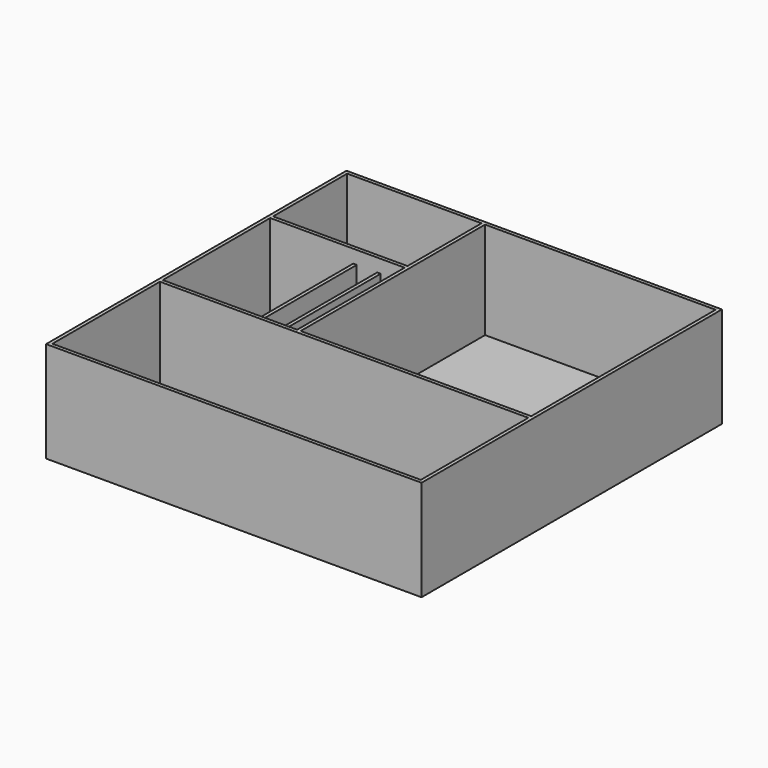
from build123d import *

# Parameters (mm, degrees)
F0_W     = 92
F0_H     = 63.4
F1_DEPTH = 2.4
F0_W_2   = 56.8
F0_H_2   = 92
F0_W_3   = 14
F0_W_4   = 8
F0_W_5   = 6
F0_W_6   = 252.2
F0_W_7   = 257
F0_H_3   = 257
F2_DEPTH = 69
F0_W_8   = 2.4
F3_DEPTH = 60


with BuildPart() as f1:
    # F0 (on Top) → F1 (new body)
    with BuildSketch(Plane.XY):
        with Locations((-80.1, 94.4)):
            Rectangle(F0_W, F0_H)
    extrude(amount=F1_DEPTH)



with BuildPart() as f1b:
    # F0 (on Top) → F1, piece 2 (new body)
    with BuildSketch(Plane.XY):
        with Locations((-97.7, 14.3)):
            Rectangle(F0_W_2, F0_H_2)
    extrude(amount=F1_DEPTH)


with BuildPart() as f1c:
    # F0 (on Top) → F1, piece 3 (new body)
    with BuildSketch(Plane.XY):
        with Locations((-59.9, 14.3)):
            Rectangle(F0_W_3, F0_H_2)
    extrude(amount=F1_DEPTH)


with BuildPart() as f1d:
    # F0 (on Top) → F1, piece 4 (new body)
    with BuildSketch(Plane.XY):
        with Locations((-46.5, 14.3)):
            Rectangle(F0_W_4, F0_H_2)
    extrude(amount=F1_DEPTH)


with BuildPart() as f1e:
    # F0 (on Top) → F1, piece 5 (new body)
    with BuildSketch(Plane.XY):
        with Locations((-37.1, 14.3)):
            Rectangle(F0_W_5, F0_H_2)
    extrude(amount=F1_DEPTH)


with BuildPart() as f1f:
    # F0 (on Top) → F1, piece 6 (new body)
    with BuildSketch(Plane.XY):
        Polygon((126.1, 126.1), (-31.7, 126.1), (-31.7, 60.3), (-31.7, -31.7), (126.1, -31.7), align=None)
    extrude(amount=F1_DEPTH)


with BuildPart() as f1g:
    # F0 (on Top) → F1, piece 7 (new body)
    with BuildSketch(Plane.XY):
        with Locations((0, -80.1)):
            Rectangle(F0_W_6, F0_H_2)
    extrude(amount=F1_DEPTH)


with BuildPart() as f1_1:
    add(f1.part)

    add(f1b.part)  # F2 merges F1b

    add(f1c.part)  # F2 merges F1c

    add(f1d.part)  # F2 merges F1d

    add(f1e.part)  # F2 merges F1e

    add(f1f.part)  # F2 merges F1f

    add(f1g.part)  # F2 merges F1g
    # F0 (on Top) → F2 (join)
    with BuildSketch(Plane.XY):
        Rectangle(F0_W_7, F0_H_3)
        Polygon((-126.1, 62.7), (-126.1, 126.1), (-34.1, 126.1), (-31.7, 126.1), (126.1, 126.1), (126.1, -31.7), (126.1, -34.1), (126.1, -126.1), (-126.1, -126.1), (-126.1, -34.1), (-126.1, -31.7), (-126.1, 60.3), align=None, mode=Mode.SUBTRACT)
        Polygon((-69.3, -31.7), (-126.1, -31.7), (-126.1, -34.1), (126.1, -34.1), (126.1, -31.7), (-31.7, -31.7), (-34.1, -31.7), (-40.1, -31.7), (-42.5, -31.7), (-50.5, -31.7), (-52.9, -31.7), (-66.9, -31.7), align=None)
        Polygon((-34.1, 62.7), (-126.1, 62.7), (-126.1, 60.3), (-69.3, 60.3), (-66.9, 60.3), (-52.9, 60.3), (-50.5, 60.3), (-42.5, 60.3), (-40.1, 60.3), (-34.1, 60.3), align=None)
        Polygon((-31.7, 126.1), (-34.1, 126.1), (-34.1, 62.7), (-34.1, 60.3), (-34.1, -31.7), (-31.7, -31.7), (-31.7, 60.3), align=None)
    extrude(amount=F2_DEPTH)

    # F0 (on Top) → F3 (join)
    with BuildSketch(Plane.XY):
        with Locations((-68.1, 14.3)):
            Rectangle(F0_W_8, F0_H_2)
        with Locations((-51.7, 14.3)):
            Rectangle(F0_W_8, F0_H_2)
        with Locations((-41.3, 14.3)):
            Rectangle(F0_W_8, F0_H_2)
    extrude(amount=F3_DEPTH)


solid = f1_1.part
